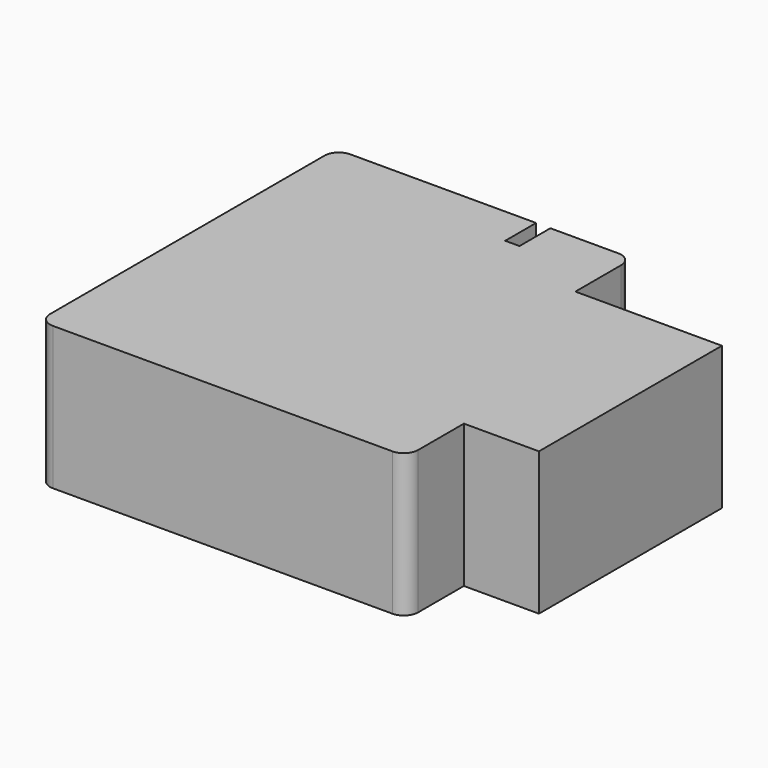
from build123d import *

# Parameters (mm, degrees)
BOX003_W     = 1
BOX003_H     = 2.7
BOX003_DEPTH = 10
BOX001_W     = 20.75
BOX001_H     = 5
BOX001_DEPTH = 10
BOX002_W     = 25.75
BOX002_H     = 5
BOX002_DEPTH = 10
BOX_W        = 31
BOX_H        = 16
BOX_DEPTH    = 10
FILLET_R     = 1


with BuildPart() as cube003:
    # Box003 → Box003 (new body)
    with BuildSketch(Plane(origin=(14, 18.3, 0), x_dir=(1, 0, 0), z_dir=(0, 0, 1))):
        with Locations((0.5, 1.35)):
            Rectangle(BOX003_W, BOX003_H)
    extrude(amount=BOX003_DEPTH)


with BuildPart() as cube001:
    # Box001 → Box001 (new body)
    with BuildSketch(Plane(origin=(0, 16, 0), x_dir=(1, 0, 0), z_dir=(0, 0, 1))):
        with Locations((10.375, 2.5)):
            Rectangle(BOX001_W, BOX001_H)
    extrude(amount=BOX001_DEPTH)


with BuildPart() as cube002:
    # Box002 → Box002 (new body)
    with BuildSketch(Plane(origin=(0, -5, 0), x_dir=(1, 0, 0), z_dir=(0, 0, 1))):
        with Locations((12.875, 2.5)):
            Rectangle(BOX002_W, BOX002_H)
    extrude(amount=BOX002_DEPTH)


with BuildPart() as fillet_body:
    # Box → Box (new body)
    with BuildSketch(Plane.XY):
        with Locations((15.5, 8)):
            Rectangle(BOX_W, BOX_H)
    extrude(amount=BOX_DEPTH)

    # Fusion: union Cube001, Cube002
    add(cube001.part)
    add(cube002.part)

    # Cut: cut Cube003
    add(cube003.part, mode=Mode.SUBTRACT)

    # Fillet
    fillet_edges = [fillet_body.edges().sort_by_distance(p)[0] for p in [
        (0, -5, 5),
        (25.75, -5, 5),
        (20.75, 21, 5),
        (0, 21, 5),
    ]]
    fillet(fillet_edges, radius=FILLET_R)


solid = fillet_body.part
